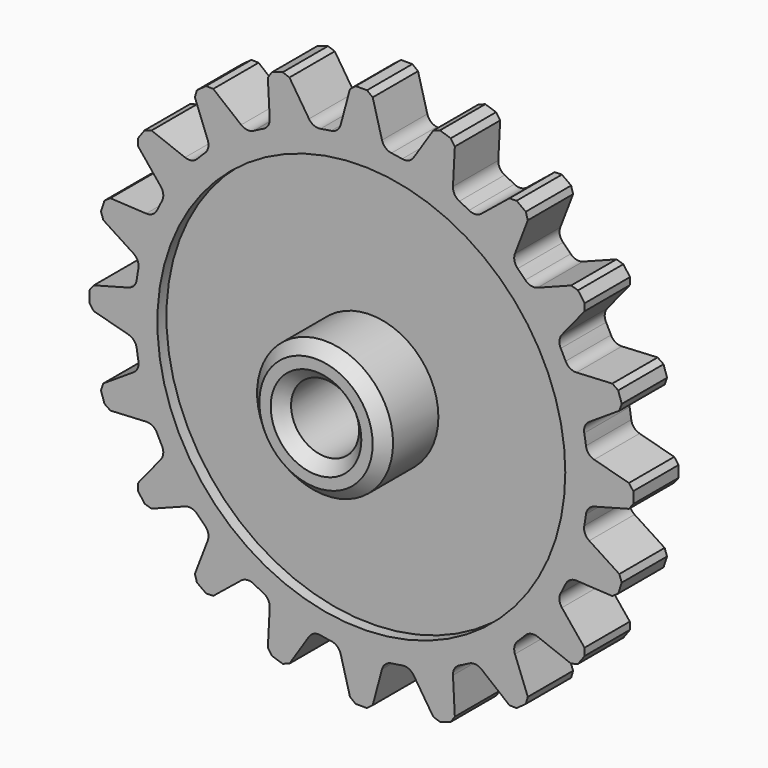
from build123d import *

# Parameters (mm, degrees)
F1_DEPTH = 25
F2_R     = 5
F3_SIZE  = 2
F4_R     = 90
F5_DEPTH = 5
F6_R     = 30
F7_DEPTH = 30
F8_R     = 15
F9_DEPTH = 50.001
F10_SIZE = 5


with BuildPart() as f1:
    # F0 (on Front) → F1 (new body)
    with BuildSketch(Plane.XZ):
        with BuildLine():
            Line((32.8022850017, 115.5173584301), (21.2430046727, 97.7176276445))
            ThreePointArc((21.2430046727, 97.7176276445), (15.643446504, 98.7688340595), (9.9931095726, 99.4994359837))
            Line((9.9931095726, 99.4994359837), (4.5, 120))
            Line((4.5, 120), (0, 120))
            Line((0, 120), (-4.5, 120))
            Line((-4.5, 120), (-9.9931095726, 99.4994359837))
            ThreePointArc((-9.9931095726, 99.4994359837), (-15.643446504, 98.7688340595), (-21.2430046727, 97.7176276445))
            Line((-21.2430046727, 97.7176276445), (-32.8022850017, 115.5173584301))
            Line((-32.8022850017, 115.5173584301), (-37.082039325, 114.1267819554))
            Line((-37.082039325, 114.1267819554), (-41.3617936483, 112.7362054807))
            Line((-41.3617936483, 112.7362054807), (-40.2510286267, 91.5415462754))
            ThreePointArc((-40.2510286267, 91.5415462754), (-45.399049974, 89.1006524188), (-50.3997056118, 86.3705370728))
            Line((-50.3997056118, 86.3705370728), (-66.8936538004, 99.7270729603))
            Line((-66.8936538004, 99.7270729603), (-70.5342302751, 97.082039325))
            Line((-70.5342302751, 97.082039325), (-74.1748067498, 94.4370056897))
            Line((-74.1748067498, 94.4370056897), (-66.5688965535, 74.6229322102))
            ThreePointArc((-66.5688965535, 74.6229322102), (-70.7106781187, 70.7106781187), (-74.6229322102, 66.5688965535))
            Line((-74.6229322102, 66.5688965535), (-94.4370056897, 74.1748067498))
            Line((-94.4370056897, 74.1748067498), (-97.082039325, 70.5342302751))
            Line((-97.082039325, 70.5342302751), (-99.7270729603, 66.8936538004))
            Line((-99.7270729603, 66.8936538004), (-86.3705370728, 50.3997056118))
            ThreePointArc((-86.3705370728, 50.3997056118), (-89.1006524188, 45.399049974), (-91.5415462754, 40.2510286267))
            Line((-91.5415462754, 40.2510286267), (-112.7362054807, 41.3617936483))
            Line((-112.7362054807, 41.3617936483), (-114.1267819554, 37.082039325))
            Line((-114.1267819554, 37.082039325), (-115.5173584301, 32.8022850017))
            Line((-115.5173584301, 32.8022850017), (-97.7176276445, 21.2430046727))
            ThreePointArc((-97.7176276445, 21.2430046727), (-98.7688340595, 15.643446504), (-99.4994359837, 9.9931095726))
            Line((-99.4994359837, 9.9931095726), (-120, 4.5))
            Line((-120, 4.5), (-120, 0))
            Line((-120, 0), (-120, -4.5))
            Line((-120, -4.5), (-99.4994359837, -9.9931095726))
            ThreePointArc((-99.4994359837, -9.9931095726), (-98.7688340595, -15.643446504), (-97.7176276445, -21.2430046727))
            Line((-97.7176276445, -21.2430046727), (-115.5173584301, -32.8022850017))
            Line((-115.5173584301, -32.8022850017), (-114.1267819554, -37.082039325))
            Line((-114.1267819554, -37.082039325), (-112.7362054807, -41.3617936483))
            Line((-112.7362054807, -41.3617936483), (-91.5415462754, -40.2510286267))
            ThreePointArc((-91.5415462754, -40.2510286267), (-89.1006524188, -45.399049974), (-86.3705370728, -50.3997056118))
            Line((-86.3705370728, -50.3997056118), (-99.7270729603, -66.8936538004))
            Line((-99.7270729603, -66.8936538004), (-97.082039325, -70.5342302751))
            Line((-97.082039325, -70.5342302751), (-94.4370056897, -74.1748067498))
            Line((-94.4370056897, -74.1748067498), (-74.6229322102, -66.5688965535))
            ThreePointArc((-74.6229322102, -66.5688965535), (-70.7106781187, -70.7106781187), (-66.5688965535, -74.6229322102))
            Line((-66.5688965535, -74.6229322102), (-74.1748067498, -94.4370056897))
            Line((-74.1748067498, -94.4370056897), (-70.5342302751, -97.082039325))
            Line((-70.5342302751, -97.082039325), (-66.8936538004, -99.7270729603))
            Line((-66.8936538004, -99.7270729603), (-50.3997056118, -86.3705370728))
            ThreePointArc((-50.3997056118, -86.3705370728), (-45.399049974, -89.1006524188), (-40.2510286267, -91.5415462754))
            Line((-40.2510286267, -91.5415462754), (-41.3617936483, -112.7362054807))
            Line((-41.3617936483, -112.7362054807), (-37.082039325, -114.1267819554))
            Line((-37.082039325, -114.1267819554), (-32.8022850017, -115.5173584301))
            Line((-32.8022850017, -115.5173584301), (-21.2430046727, -97.7176276445))
            ThreePointArc((-21.2430046727, -97.7176276445), (-15.643446504, -98.7688340595), (-9.9931095726, -99.4994359837))
            Line((-9.9931095726, -99.4994359837), (-4.5, -120))
            Line((-4.5, -120), (0, -120))
            Line((0, -120), (4.5, -120))
            Line((4.5, -120), (9.9931095726, -99.4994359837))
            ThreePointArc((9.9931095726, -99.4994359837), (15.643446504, -98.7688340595), (21.2430046727, -97.7176276445))
            Line((21.2430046727, -97.7176276445), (32.8022850017, -115.5173584301))
            Line((32.8022850017, -115.5173584301), (37.082039325, -114.1267819554))
            Line((37.082039325, -114.1267819554), (41.3617936483, -112.7362054807))
            Line((41.3617936483, -112.7362054807), (40.2510286267, -91.5415462754))
            ThreePointArc((40.2510286267, -91.5415462754), (45.399049974, -89.1006524188), (50.3997056118, -86.3705370728))
            Line((50.3997056118, -86.3705370728), (66.8936538004, -99.7270729603))
            Line((66.8936538004, -99.7270729603), (70.5342302751, -97.082039325))
            Line((70.5342302751, -97.082039325), (74.1748067498, -94.4370056897))
            Line((74.1748067498, -94.4370056897), (66.5688965535, -74.6229322102))
            ThreePointArc((66.5688965535, -74.6229322102), (70.7106781187, -70.7106781187), (74.6229322102, -66.5688965535))
            Line((74.6229322102, -66.5688965535), (94.4370056897, -74.1748067498))
            Line((94.4370056897, -74.1748067498), (97.082039325, -70.5342302751))
            Line((97.082039325, -70.5342302751), (99.7270729603, -66.8936538004))
            Line((99.7270729603, -66.8936538004), (86.3705370728, -50.3997056118))
            ThreePointArc((86.3705370728, -50.3997056118), (89.1006524188, -45.399049974), (91.5415462754, -40.2510286267))
            Line((91.5415462754, -40.2510286267), (112.7362054807, -41.3617936483))
            Line((112.7362054807, -41.3617936483), (114.1267819554, -37.082039325))
            Line((114.1267819554, -37.082039325), (115.5173584301, -32.8022850017))
            Line((115.5173584301, -32.8022850017), (97.7176276445, -21.2430046727))
            ThreePointArc((97.7176276445, -21.2430046727), (98.7688340595, -15.643446504), (99.4994359837, -9.9931095726))
            Line((99.4994359837, -9.9931095726), (120, -4.5))
            Line((120, -4.5), (120, 0))
            Line((120, 0), (120, 4.5))
            Line((120, 4.5), (99.4994359837, 9.9931095726))
            ThreePointArc((99.4994359837, 9.9931095726), (98.7688340595, 15.643446504), (97.7176276445, 21.2430046727))
            Line((97.7176276445, 21.2430046727), (115.5173584301, 32.8022850017))
            Line((115.5173584301, 32.8022850017), (114.1267819554, 37.082039325))
            Line((114.1267819554, 37.082039325), (112.7362054807, 41.3617936483))
            Line((112.7362054807, 41.3617936483), (91.5415462754, 40.2510286267))
            ThreePointArc((91.5415462754, 40.2510286267), (89.1006524188, 45.399049974), (86.3705370728, 50.3997056118))
            Line((86.3705370728, 50.3997056118), (99.7270729603, 66.8936538004))
            Line((99.7270729603, 66.8936538004), (97.082039325, 70.5342302751))
            Line((97.082039325, 70.5342302751), (94.4370056897, 74.1748067498))
            Line((94.4370056897, 74.1748067498), (74.6229322102, 66.5688965535))
            ThreePointArc((74.6229322102, 66.5688965535), (70.7106781187, 70.7106781187), (66.5688965535, 74.6229322102))
            Line((66.5688965535, 74.6229322102), (74.1748067498, 94.4370056897))
            Line((74.1748067498, 94.4370056897), (70.5342302751, 97.082039325))
            Line((70.5342302751, 97.082039325), (66.8936538004, 99.7270729603))
            Line((66.8936538004, 99.7270729603), (50.3997056118, 86.3705370728))
            ThreePointArc((50.3997056118, 86.3705370728), (45.399049974, 89.1006524188), (40.2510286267, 91.5415462754))
            Line((40.2510286267, 91.5415462754), (41.3617936483, 112.7362054807))
            Line((41.3617936483, 112.7362054807), (37.082039325, 114.1267819554))
            Line((37.082039325, 114.1267819554), (32.8022850017, 115.5173584301))
        make_face()
    extrude(amount=F1_DEPTH)

    # F2
    f2_edges = [f1.edges().sort_by_distance(p)[0] for p in [
        (9.99311, -12.5, 99.499436),
        (21.243005, -12.5, 97.717628),
        (-21.243005, -12.5, 97.717628),
        (-9.99311, -12.5, 99.499436),
        (-50.399706, -12.5, 86.370537),
        (-74.622932, -12.5, 66.568897),
        (-66.568897, -12.5, 74.622932),
        (-40.251029, -12.5, 91.541546),
        (-91.541546, -12.5, 40.251029),
        (-86.370537, -12.5, 50.399706),
        (-99.499436, -12.5, 9.99311),
        (-97.717628, -12.5, 21.243005),
        (-99.499436, -12.5, -9.99311),
        (-97.717628, -12.5, -21.243005),
        (-86.370537, -12.5, -50.399706),
        (-91.541546, -12.5, -40.251029),
        (-74.622932, -12.5, -66.568897),
        (-66.568897, -12.5, -74.622932),
        (-40.251029, -12.5, -91.541546),
        (-50.399706, -12.5, -86.370537),
        (-21.243005, -12.5, -97.717628),
        (-9.99311, -12.5, -99.499436),
        (9.99311, -12.5, -99.499436),
        (21.243005, -12.5, -97.717628),
        (40.251029, -12.5, -91.541546),
        (50.399706, -12.5, -86.370537),
        (66.568897, -12.5, -74.622932),
        (74.622932, -12.5, -66.568897),
        (91.541546, -12.5, -40.251029),
        (86.370537, -12.5, -50.399706),
        (99.499436, -12.5, -9.99311),
        (97.717628, -12.5, -21.243005),
        (97.717628, -12.5, 21.243005),
        (99.499436, -12.5, 9.99311),
        (86.370537, -12.5, 50.399706),
        (91.541546, -12.5, 40.251029),
        (66.568897, -12.5, 74.622932),
        (74.622932, -12.5, 66.568897),
        (50.399706, -12.5, 86.370537),
        (40.251029, -12.5, 91.541546),
    ]]
    fillet(f2_edges, radius=F2_R)

    # F3
    f3_edges = [f1.edges().sort_by_distance(p)[0] for p in [
        (4.5, -12.5, 120),
        (-4.5, -12.5, 120),
        (-32.802285, -12.5, 115.517358),
        (-41.361794, -12.5, 112.736205),
        (-66.893654, -12.5, 99.727073),
        (-74.174807, -12.5, 94.437006),
        (-94.437006, -12.5, 74.174807),
        (-99.727073, -12.5, 66.893654),
        (-112.736205, -12.5, 41.361794),
        (-115.517358, -12.5, 32.802285),
        (-120, -12.5, 4.5),
        (-120, -12.5, -4.5),
        (-115.517358, -12.5, -32.802285),
        (-112.736205, -12.5, -41.361794),
        (-99.727073, -12.5, -66.893654),
        (-94.437006, -12.5, -74.174807),
        (-74.174807, -12.5, -94.437006),
        (-66.893654, -12.5, -99.727073),
        (-41.361794, -12.5, -112.736205),
        (-32.802285, -12.5, -115.517358),
        (-4.5, -12.5, -120),
        (4.5, -12.5, -120),
        (32.802285, -12.5, -115.517358),
        (41.361794, -12.5, -112.736205),
        (66.893654, -12.5, -99.727073),
        (74.174807, -12.5, -94.437006),
        (94.437006, -12.5, -74.174807),
        (99.727073, -12.5, -66.893654),
        (112.736205, -12.5, -41.361794),
        (115.517358, -12.5, -32.802285),
        (120, -12.5, -4.5),
        (120, -12.5, 4.5),
        (115.517358, -12.5, 32.802285),
        (112.736205, -12.5, 41.361794),
        (99.727073, -12.5, 66.893654),
        (94.437006, -12.5, 74.174807),
        (74.174807, -12.5, 94.437006),
        (66.893654, -12.5, 99.727073),
        (41.361794, -12.5, 112.736205),
        (32.802285, -12.5, 115.517358),
    ]]
    chamfer(f3_edges, length=F3_SIZE)

    # F4 (on face) → F5 (cut)
    with BuildSketch(Plane.XZ.offset(25)):
        Circle(F4_R)
    extrude(amount=-F5_DEPTH, mode=Mode.SUBTRACT)

    # F6 (on face) → F7 (join)
    with BuildSketch(Plane.XZ.offset(20)):
        Circle(F6_R)
    extrude(amount=F7_DEPTH)

    # F8 (on face) → F9 (cut, through all)
    with BuildSketch(Plane.XZ.offset(50)):
        Circle(F8_R)
    extrude(amount=-F9_DEPTH, mode=Mode.SUBTRACT)

    # F10
    f10_edges = [f1.edges().sort_by_distance(p)[0] for p in [
        (-30, -50, 0),
        (-15, -50, 0),
    ]]
    chamfer(f10_edges, length=F10_SIZE)


solid = f1.part
